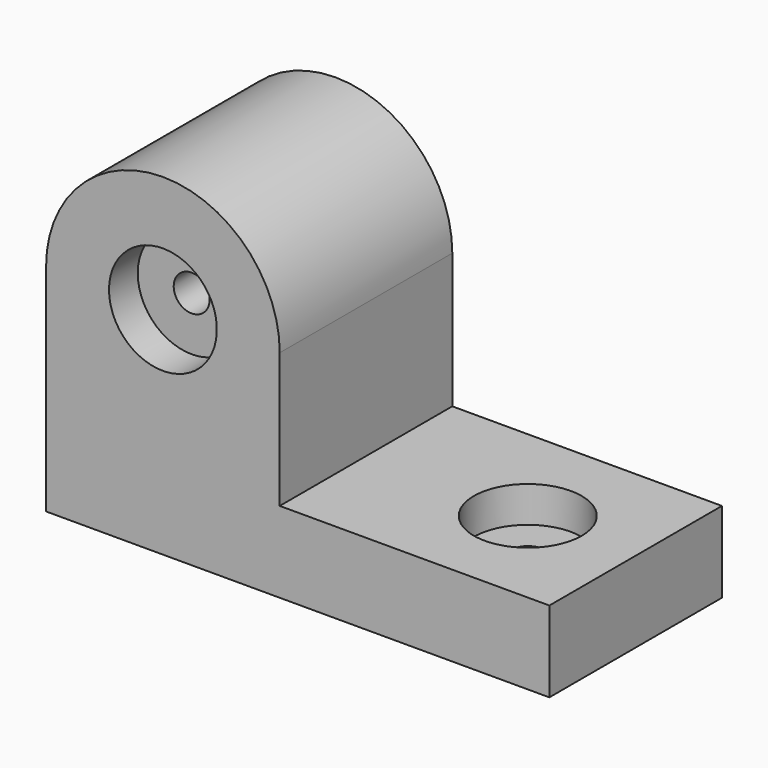
from build123d import *

# Parameters (mm, degrees)
F1_DEPTH = 76.2
F2_DEPTH = 63.5
F3_R     = 19.05
F4_DEPTH = 127
F6_DEPTH = 15.875


with BuildPart() as f1:
    # F0 (on Front) → F1 (new body)
    with BuildSketch(Plane.XZ):
        with BuildLine():
            Line((0, 76.2), (0, 0))
            Line((0, 0), (177.8, 0))
            Line((177.8, 0), (177.8, 28.575))
            Line((177.8, 28.575), (82.55, 28.575))
            Line((82.55, 28.575), (82.55, 76.2))
            Line((82.55, 76.2), (60.325, 76.2))
            ThreePointArc((60.325, 76.2), (41.275, 57.15), (22.225, 76.2))
            Line((22.225, 76.2), (0, 76.2))
        make_face()
        with BuildLine():
            ThreePointArc((82.55, 76.2), (41.275, 117.475), (0, 76.2))
            Line((0, 76.2), (22.225, 76.2))
            ThreePointArc((22.225, 76.2), (41.275, 95.25), (60.325, 76.2))
            Line((60.325, 76.2), (82.55, 76.2))
        make_face()
    extrude(amount=F1_DEPTH)

    # F0 (on Front) → F2 (join)
    with BuildSketch(Plane.XZ):
        with BuildLine():
            Line((34.925, 76.2), (22.225, 76.2))
            ThreePointArc((22.225, 76.2), (41.275, 57.15), (60.325, 76.2))
            Line((60.325, 76.2), (47.625, 76.2))
            ThreePointArc((47.625, 76.2), (41.275, 69.85), (34.925, 76.2))
        make_face()
        with BuildLine():
            ThreePointArc((60.325, 76.2), (41.275, 95.25), (22.225, 76.2))
            Line((22.225, 76.2), (34.925, 76.2))
            ThreePointArc((34.925, 76.2), (41.275, 82.55), (47.625, 76.2))
            Line((47.625, 76.2), (60.325, 76.2))
        make_face()
    extrude(amount=F2_DEPTH)

    # F3 (on face) → F4 (cut)
    with BuildSketch(Plane.XY.offset(28.575)):
        with Locations((139.7, -38.1)):
            Circle(F3_R)
    extrude(amount=-F4_DEPTH, mode=Mode.SUBTRACT)

    # F5 (on face) → F6 (join)
    with BuildSketch(Plane(origin=(0, 0, 0), x_dir=(1, 0, 0), z_dir=(0, 0, -1))):
        with BuildLine():
            ThreePointArc((120.65, 38.1), (139.7, 19.05), (158.75, 38.1))
            Line((158.75, 38.1), (146.05, 38.1))
            ThreePointArc((146.05, 38.1), (139.7, 31.75), (133.35, 38.1))
            Line((133.35, 38.1), (120.65, 38.1))
        make_face()
        with BuildLine():
            Line((146.05, 38.1), (158.75, 38.1))
            ThreePointArc((158.75, 38.1), (139.7, 57.15), (120.65, 38.1))
            Line((120.65, 38.1), (133.35, 38.1))
            ThreePointArc((133.35, 38.1), (139.7, 44.45), (146.05, 38.1))
        make_face()
    extrude(amount=-F6_DEPTH)


solid = f1.part
